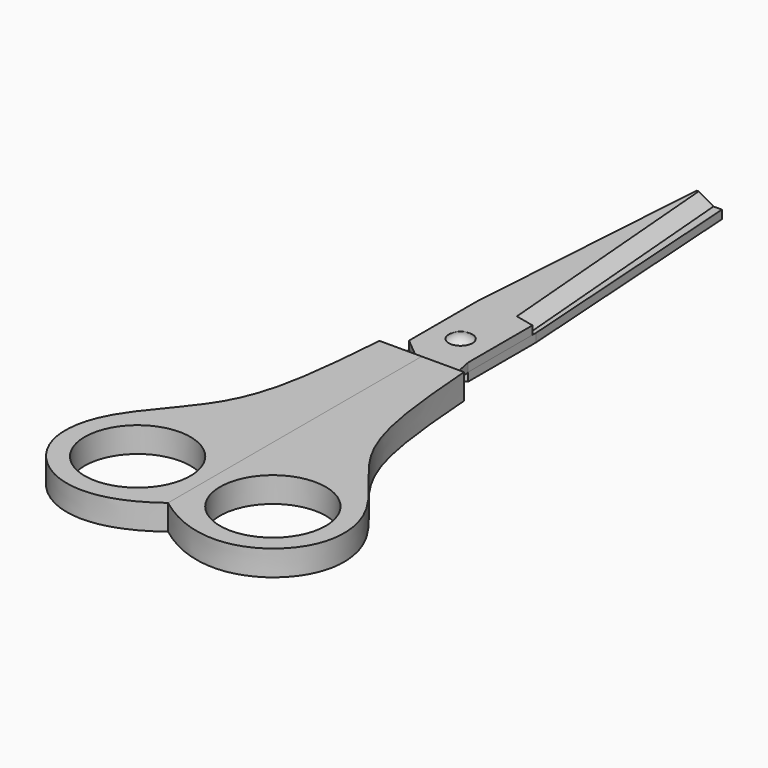
from build123d import *

# Parameters (mm, degrees)
F1_DEPTH   = 6
F2_R       = 12.5
F3_DEPTH   = 6
F12_W      = 9
F12_H      = 2
F13_W      = 14
F13_H      = 2
F17_W      = 14
F17_H      = 2
F20_FACE_W = 14
F20_FACE_H = 2
F23_ANGLE  = 180
F24_R      = 2
F25_DEPTH  = 5.5


with BuildPart() as f1:
    # F0 (on Top) → F1 (new body)
    with BuildSketch(Plane.XY):
        with BuildLine():
            add(Edge.make_bspline(
                [(10, 0), (11.5989848037, -21.7203960732), (14.551794516, -37.2840041084), (33.7173695123, -54.7088770026), (33.6899893736, -76.726959724), (13.7604479388, -85.4259035728), (0, -75)],
                knots=[0, 0, 0, 0, 0.3055877393, 0.5313877422, 0.7339704157, 1, 1, 1, 1], degree=3))
            Line((10, 0), (0, 0))
            Line((0, 0), (0, -75))
        make_face()
    extrude(amount=F1_DEPTH)


with BuildPart() as f3:
    # F2 (on Top) → F3 (new body)
    with BuildSketch(Plane.XY):
        with Locations((16, -64)):
            Circle(F2_R)
    extrude(amount=F3_DEPTH)


with BuildPart() as f1_1:
    add(f1.part)

    # F4: cut F3
    add(f3.part, mode=Mode.SUBTRACT)


with BuildPart() as f5_1:
    # F5: instance of F1
    add(f1_1.part.mirror(Plane.YZ))


with BuildPart() as f18:
    # F12 (on Front) → F18 section 0
    with BuildSketch(Plane.XZ):
        with Locations((3.5, 4)):
            Rectangle(F12_W, F12_H)
    # F13 (on offset) → F18 section 1
    with BuildSketch(Plane.XZ.offset(-5)):
        with Locations((0, 4)):
            Rectangle(F13_W, F13_H)
    loft()

    # F13 (on offset) → F20 section 0
    with BuildSketch(Plane.XZ.offset(-5)):
        with Locations((0, 4)):
            Rectangle(F13_W, F13_H)
    # F17 (on offset) → F20 section 1
    with BuildSketch(Plane.XZ.offset(-24)):
        with Locations((0, 4)):
            Rectangle(F17_W, F17_H)
    loft()

    # F20_face (on face) → F21 section 0
    with BuildSketch(Plane(origin=(0, 24, 4), x_dir=(-1, 0, 0), z_dir=(0, 1, 0))):
        Rectangle(F20_FACE_W, F20_FACE_H)
    # F16 (on offset) → F21 section 1
    with BuildSketch(Plane.XZ.offset(-25)):
        Polygon((-7, 5), (-7, 3), (6, 3), (2.500016833, 5), align=None)
    loft()

    # F21_face (on face) → F22 section 0
    with BuildSketch(Plane(origin=(-1.3296258917, 25, 3.9481484363), x_dir=(-1, 0, 0), z_dir=(0, 1, 0))):
        Polygon((-3.8296427247, 1.0518515637), (-7.3296258917, -0.9481484363), (5.6703741083, -0.9481484363), (5.6703741083, 1.0518515637), align=None)
    # F14 (on offset) → F22 section 1
    with BuildSketch(Plane.XZ.offset(-85)):
        Polygon((0.999983167, 3), (-2.5, 5), (-3, 5), (-3, 3), align=None)
    loft()


with BuildPart() as f23_1:
    # F23: copy of F18
    add(f18.part.rotate(Axis((0, 45, 3), (0, 1, 0)), F23_ANGLE))


with BuildPart() as f25:
    # F24 (on Top) → F25 (new body)
    with BuildSketch(Plane.XY):
        with Locations((0, 11.5)):
            Circle(F24_R)
    extrude(amount=F25_DEPTH)


with BuildPart() as f18_1:
    add(f18.part)

    # F26: cut F25
    add(f25.part, mode=Mode.SUBTRACT)


with BuildPart() as f23_1_1:
    add(f23_1.part)

    # F26: cut F25
    add(f25.part, mode=Mode.SUBTRACT)


with BuildPart() as f25_1:
    add(f25.part)

    # F28 (on offset) → F29 (revolve)
    with BuildSketch(Plane.XZ.offset(-11.5)):
        with BuildLine():
            Line((0, 5), (2.8, 5))
            ThreePointArc((2.8, 5), (1.4866068747, 5.7424992492), (0, 6))
            Line((0, 6), (0, 5))
        make_face()
    revolve(axis=Axis((0, 11.5, 5.5), (0, 0, 1)))


solid = Compound([f1_1.part, f5_1.part, f18_1.part, f23_1_1.part, f25_1.part])
